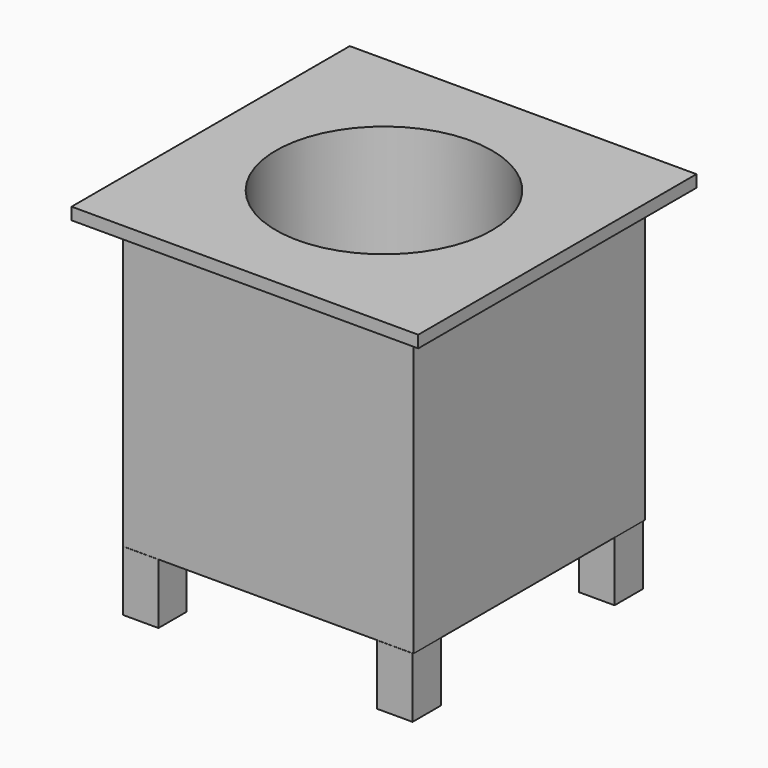
from build123d import *

# Parameters (mm, degrees)
F0_W      = 611.245334
F0_H      = 608.932316
F1_DEPTH  = 609.6
F3_W      = 729.550778
F3_H      = 731.767536
F4_DEPTH  = 25.4
F6_R      = 227.394025
F7_DEPTH  = 609.6
F9_W      = 74.302555
F9_H      = 74.302554
F9_W_2    = 74.302539
F9_H_2    = 74.302539
F10_DEPTH = 127


with BuildPart() as f1:
    # F0 (on Top) → F1 (new body)
    with BuildSketch(Plane.XY):
        Rectangle(F0_W, F0_H)
    extrude(amount=F1_DEPTH)

    # F3 (on offset) → F4 (join)
    with BuildSketch(Plane.XY.offset(609.6)):
        Rectangle(F3_W, F3_H)
    extrude(amount=F4_DEPTH)

    # F6 (on offset) → F7 (cut)
    with BuildSketch(Plane.XY.offset(635)):
        Circle(F6_R)
    extrude(amount=-F7_DEPTH, mode=Mode.SUBTRACT)

    # F9 (on offset) → F10 (join)
    with BuildSketch(Plane(origin=(0, 0, 0), x_dir=(1, 0, 0), z_dir=(0, 0, -1))):
        with Locations((-268.007428, 267.634988)):
            Rectangle(F9_W, F9_H)
        with Locations((266.745753, 267.634988)):
            Rectangle(F9_W_2, F9_H)
        with Locations((266.745753, -263.740815)):
            Rectangle(F9_W_2, F9_H_2)
        with Locations((-268.007428, -265.992411)):
            Rectangle(F9_W, F9_H_2)
    extrude(amount=F10_DEPTH)


solid = f1.part
